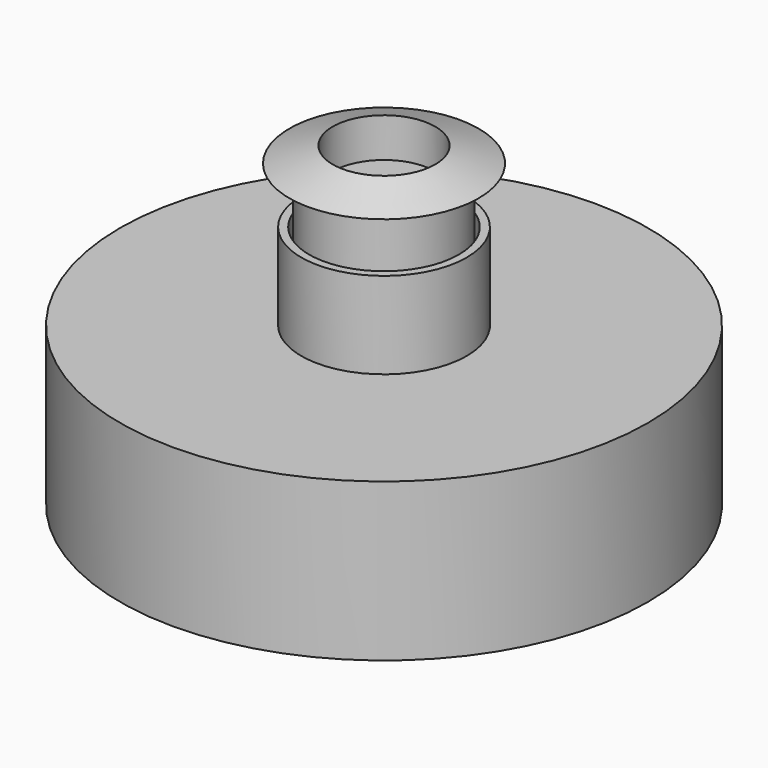
from build123d import *

# Parameters (mm, degrees)
F0_R      = 33.5
F1_DEPTH  = 20
F2_R      = 32.5
F3_DEPTH  = 18
F4_R      = 10.5
F5_DEPTH  = 11
F6_R      = 9.5
F7_DEPTH  = 9.9
F8_R      = 9
F9_DEPTH  = 17
F10_R     = 12
F11_DEPTH = 2
F11_TAPER = 70
F12_DEPTH = 5


with BuildPart() as f1:
    # F0 (on Top) → F1 (new body)
    with BuildSketch(Plane.XY):
        Circle(F0_R)
    extrude(amount=F1_DEPTH)

    # F2 (on face) → F3 (cut)
    with BuildSketch(Plane(origin=(0, 0, 0), x_dir=(1, 0, 0), z_dir=(0, 0, -1))):
        Circle(F2_R)
    extrude(amount=-F3_DEPTH, mode=Mode.SUBTRACT)

    # F4 (on face) → F5 (join)
    with BuildSketch(Plane.XY.offset(20)):
        Circle(F4_R)
    extrude(amount=F5_DEPTH)

    # F6 (on face) → F7 (cut)
    with BuildSketch(Plane.XY.offset(31)):
        Circle(F6_R)
    extrude(amount=-F7_DEPTH, mode=Mode.SUBTRACT)

    # F8 (on face) → F9 (join)
    with BuildSketch(Plane.XY.offset(21.1)):
        Circle(F8_R)
    extrude(amount=F9_DEPTH)

    # F10 (on face) → F11 (join)
    with BuildSketch(Plane.XY.offset(38.1)):
        Circle(F10_R)
    extrude(amount=F11_DEPTH, taper=F11_TAPER)

    # F12 (cut): a face of the model
    f12_faces = [f1.faces().sort_by_distance(p)[0] for p in [
        (0, 0, 40.1),
    ]]
    extrude(f12_faces, amount=-F12_DEPTH, mode=Mode.SUBTRACT)


solid = f1.part
